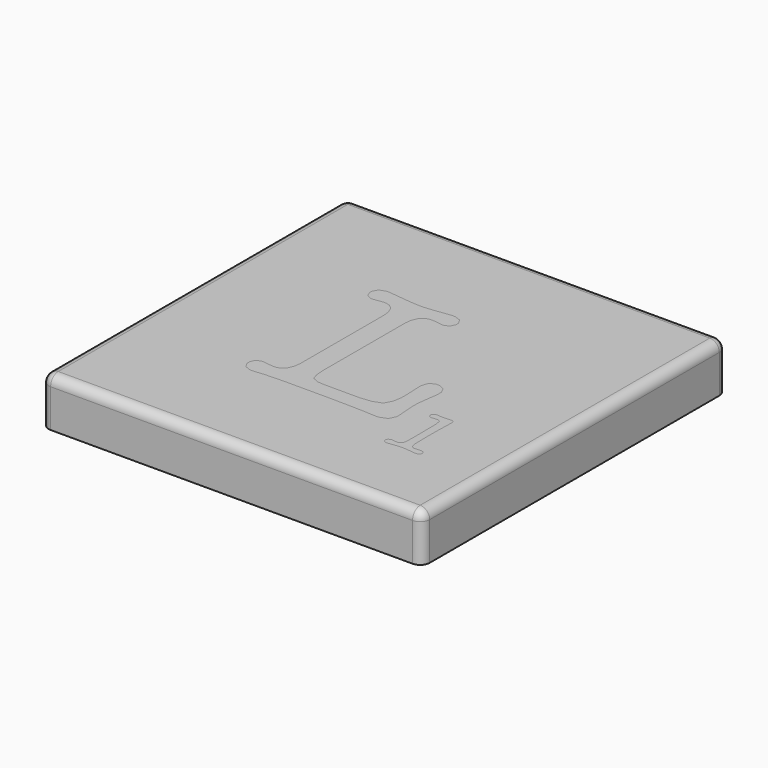
from build123d import *

# Parameters (mm, degrees)
F0_W     = 40
F0_H     = 40
F1_DEPTH = 5
F2_R     = 1
F5_DEPTH = 3


with BuildPart() as f1:
    # F0 (on Top) → F1 (new body)
    with BuildSketch(Plane.XY):
        Rectangle(F0_W, F0_H)
    extrude(amount=-F1_DEPTH)

    # F2
    f2_edges = [f1.edges().sort_by_distance(p)[0] for p in [
        (0, -20, 0),
        (20, 0, 0),
        (0, 20, 0),
        (-20, 0, 0),
        (-20, 20, -2.5),
        (20, 20, -2.5),
        (-20, -20, -2.5),
        (20, -20, -2.5),
    ]]
    fillet(f2_edges, radius=F2_R)


with BuildPart() as f5:
    # F3 (on Top) + F4 (on Top) → F5 (new body)
    with BuildSketch(Plane.XY):
        Polygon((-2.169008, -5.310251), (-2.169008, -5.000193), (-2.169008, 5.318557), (-2.169008, 5.533542), (-2.084984, 6.175705), (-1.832788, 6.787515), (-1.411097, 7.155459), (-0.968756, 7.276744), (-0.819912, 7.276744), (-0.689, 7.276744), (-0.296266, 7.23265), (-0.264566, 7.222998), (-0.19017, 7.210603), (0.270104, 7.144461), (0.449224, 7.144461), (0.584302, 7.144461), (0.9922, 7.35391), (1.032154, 7.395261), (1.070762, 7.437958), (1.270584, 7.862392), (1.270584, 8.016748), (1.270584, 8.190382), (0.972896, 8.711286), (0.303174, 8.942781), (0.079959, 8.942781), (0.001397, 8.942781), (-0.230099, 8.922106), (-0.264566, 8.916594), (-1.481379, 8.758123), (-1.649501, 8.736076), (-2.751938, 8.62584), (-3.175, 8.62584), (-3.352749, 8.62584), (-3.883304, 8.658911), (-4.701845, 8.736076), (-4.894783, 8.758123), (-6.297625, 8.916594), (-6.337579, 8.922106), (-6.595288, 8.942781), (-6.6945, 8.942781), (-6.908089, 8.942781), (-7.547508, 8.711286), (-7.831379, 8.190382), (-7.831379, 8.016748), (-7.831379, 7.87207), (-7.632954, 7.437958), (-7.592974, 7.395261), (-7.554392, 7.35391), (-7.157517, 7.144461), (-7.011441, 7.144461), (-6.851599, 7.144461), (-6.367907, 7.210603), (-6.297625, 7.222998), (-6.267298, 7.23265), (-5.880075, 7.276744), (-5.740908, 7.276744), (-5.593461, 7.276744), (-5.151095, 7.155459), (-4.729429, 6.787515), (-4.477233, 6.175705), (-4.391787, 5.533542), (-4.391787, 5.318557), (-4.391787, -5.290947), (-4.391787, -5.507304), (-4.477233, -6.159144), (-4.729429, -6.77926), (-5.151095, -7.151319), (-5.593461, -7.275347), (-5.740908, -7.275347), (-6.305906, -7.220229), (-6.376162, -7.209206), (-6.447841, -7.198182), (-6.852971, -7.143064), (-7.011441, -7.143064), (-7.165797, -7.143064), (-7.627442, -7.353884), (-7.831379, -7.830693), (-7.831379, -7.990561), (-7.831379, -8.16831), (-7.554392, -8.704377), (-6.930136, -8.942781), (-6.720688, -8.942781), (-6.541541, -8.942781), (-5.999963, -8.898687), (-5.913145, -8.890406), (-5.827725, -8.880754), (-5.367452, -8.83666), (-5.185537, -8.83666), (-4.938878, -8.827008), (-3.916401, -8.796706), (-3.281096, -8.784311), (-3.068879, -8.784311), (1.164463, -8.784311), (3.148838, -8.810473), (3.36931, -8.814613), (5.000904, -8.858707), (5.107026, -8.862847), (5.265496, -8.871102), (5.886983, -8.902802), (6.213602, -8.916594), (6.323838, -8.916594), (6.576009, -8.916594), (7.335317, -8.618931), (7.672934, -7.949209), (7.672934, -7.725969), (7.672934, -7.480681), (7.617816, -6.748932), (7.606792, -6.627673), (7.595768, -6.506413), (7.540625, -5.803595), (7.540625, -5.529377), (7.540625, -5.248224), (7.606792, -4.409008), (7.620584, -4.312564), (7.805217, -2.963469), (7.809357, -2.931744), (7.831404, -2.585898), (7.831404, -2.460473), (7.831404, -2.262048), (7.553046, -1.666723), (6.928764, -1.402156), (6.720713, -1.402156), (6.547079, -1.402156), (6.02615, -1.69291), (5.794654, -2.347493), (5.794654, -2.566594), (5.794654, -2.669921), (5.80705, -2.982773), (5.837377, -3.637305), (5.847029, -3.809568), (5.851144, -3.897757), (5.873191, -4.504131), (5.873191, -4.735627), (5.873191, -5.042916), (5.720232, -5.968975), (5.36608, -6.624904), (5.265496, -6.707607), (5.163515, -6.788887), (4.351833, -7.074154), (3.210839, -7.196811), (2.830474, -7.196811), (0.502996, -7.196811), (0.224612, -7.196811), (-0.606323, -7.183018), (-1.167181, -7.151319), (-1.230579, -7.143064), (-1.295349, -7.133412), (-1.813484, -6.890868), (-1.852066, -6.852285), (-1.905813, -6.802679), (-2.090471, -6.243193), align=None)
    with BuildSketch(Plane.XY):
        Polygon((11.022813, -7.043704), (11.051744, -9.805293), (11.051744, -10.027137), (11.032465, -10.692744), (10.988345, -11.118549), (10.97595, -11.162644), (10.962183, -11.205367), (10.668661, -11.424467), (10.56668, -11.424467), (10.503281, -11.424467), (10.317252, -11.409303), (10.280041, -11.40656), (10.253853, -11.401048), (10.058172, -11.377629), (9.985147, -11.377629), (9.896958, -11.377629), (9.633738, -11.460306), (9.51799, -11.647708), (9.51799, -11.711106), (9.51799, -11.774504), (9.619971, -11.967417), (9.850095, -12.054235), (9.92726, -12.054235), (10.033381, -12.054235), (10.355834, -12.012909), (10.413721, -12.006), (10.514305, -11.990836), (11.184052, -11.92058), (11.441735, -11.92058), (11.71321, -11.92058), (12.527636, -12.007397), (12.661291, -12.025304), (12.68471, -12.028047), (12.888672, -12.044583), (12.965837, -12.044583), (13.044399, -12.044583), (13.280035, -11.960534), (13.386131, -11.773107), (13.386131, -11.711106), (13.386131, -11.647708), (13.270383, -11.460306), (13.014071, -11.377629), (12.928626, -11.377629), (12.648896, -11.396908), (12.614453, -11.401048), (12.578614, -11.405188), (12.378792, -11.424467), (12.300255, -11.424467), (12.21895, -11.424467), (11.975034, -11.259113), (11.863401, -10.876005), (11.862029, -10.76714), (11.862029, -10.593506), (11.845494, -10.076743), (11.84275, -9.977531), (11.839982, -9.894854), (11.833098, -9.186549), (11.833098, -8.110275), (11.833098, -7.689981), (11.871681, -6.431843), (11.879936, -6.262323), (11.881333, -6.227906), (11.889588, -6.090111), (11.889588, -6.033596), (11.889588, -5.963315), (11.857889, -5.752469), (11.852377, -5.738702), (11.844122, -5.718027), (11.658092, -5.614674), (11.594694, -5.614674), (11.516157, -5.614674), (11.280496, -5.638093), (11.232261, -5.643579), (11.199191, -5.646373), (10.853319, -5.662883), (10.727919, -5.662883), (10.643845, -5.662883), (10.391674, -5.642208), (10.351694, -5.638093), (10.310368, -5.633953), (10.082988, -5.614674), (9.994799, -5.614674), (9.90661, -5.614674), (9.642018, -5.864077), (9.642018, -5.948151), (9.642018, -6.010152), (9.734347, -6.197604), (9.943796, -6.281627), (10.014077, -6.281627), (10.074707, -6.281627), (10.259365, -6.260952), (10.289693, -6.258209), (10.32002, -6.254068), (10.496398, -6.233393), (10.56668, -6.233393), (10.652125, -6.233393), (10.908437, -6.368445), (10.923601, -6.396029), (10.938739, -6.422216), (11.021441, -6.962373), align=None)
    extrude(amount=-F5_DEPTH)


solid = Compound([f1.part, f5.part])
